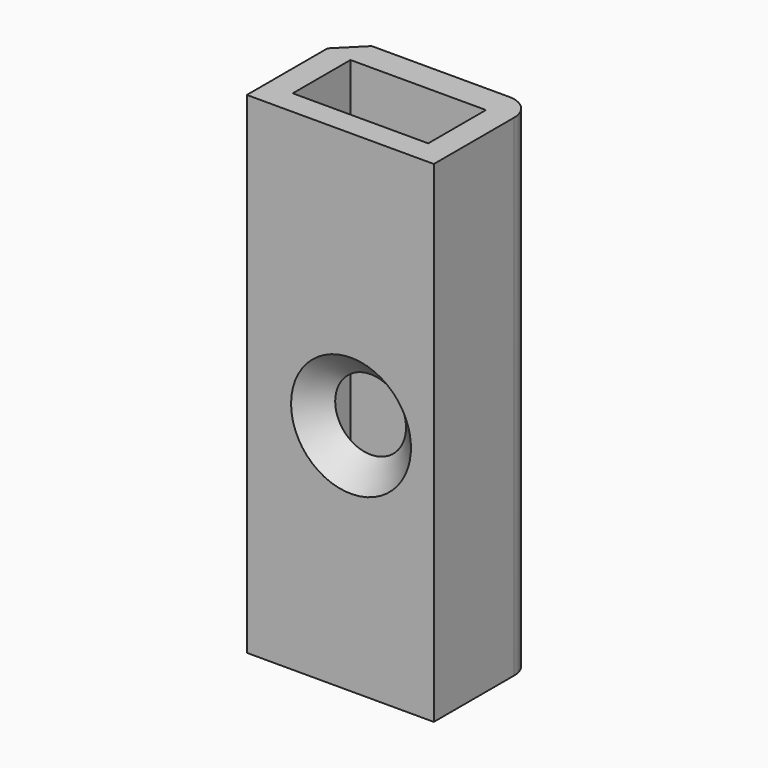
from build123d import *

# Parameters (mm, degrees)
F0_W     = 38.0692742765
F0_H     = 25.5331452936
F1_DEPTH = 100
F2_DEPTH = 23.622
F3_R     = 7.1236409115
F4_DEPTH = 56.642
F5_R     = 5.08
F6_SIZE  = 5.08
F7_SIZE  = 5
F8_W     = 27.580646798
F8_H     = 14.6975801326
F9_DEPTH = 109.9


with BuildPart() as f1:
    # F0 (on Top) → F1 (new body)
    with BuildSketch(Plane.XY):
        with Locations((19.0346371382, 12.7665726468)):
            Rectangle(F0_W, F0_H)
    extrude(amount=F1_DEPTH)

    # F2 (add): a face of the model
    f2_faces = [f1.faces().sort_by_distance(p)[0] for p in [
        (38.0692742765, 12.7665726468, 50),
    ]]
    extrude(f2_faces, amount=-F2_DEPTH)

    # F3 (on face) → F4 (cut)
    with BuildSketch(Plane(origin=(0, 25.5331452936, 0), x_dir=(-1, 0, 0), z_dir=(0, 1, 0))):
        with Locations((-21.2079435587, 47.6018153131)):
            Circle(F3_R)
    extrude(amount=-F4_DEPTH, mode=Mode.SUBTRACT)

    # F5
    f5_edges = [f1.edges().sort_by_distance(p)[0] for p in [
        (38.069274, 25.533145, 50),
    ]]
    fillet(f5_edges, radius=F5_R)

    # F6
    f6_edges = [f1.edges().sort_by_distance(p)[0] for p in [
        (28.331584, 0, 47.601815),
    ]]
    chamfer(f6_edges, length=F6_SIZE)

    # F7
    f7_edges = [f1.edges().sort_by_distance(p)[0] for p in [
        (0, 25.533145, 50),
    ]]
    chamfer(f7_edges, length=F7_SIZE)

    # F8 (on face) → F9 (cut)
    with BuildSketch(Plane.XY.offset(100)):
        with Locations((19.1431464627, 12.3387097847)):
            Rectangle(F8_W, F8_H)
    extrude(amount=-F9_DEPTH, mode=Mode.SUBTRACT)


solid = f1.part
